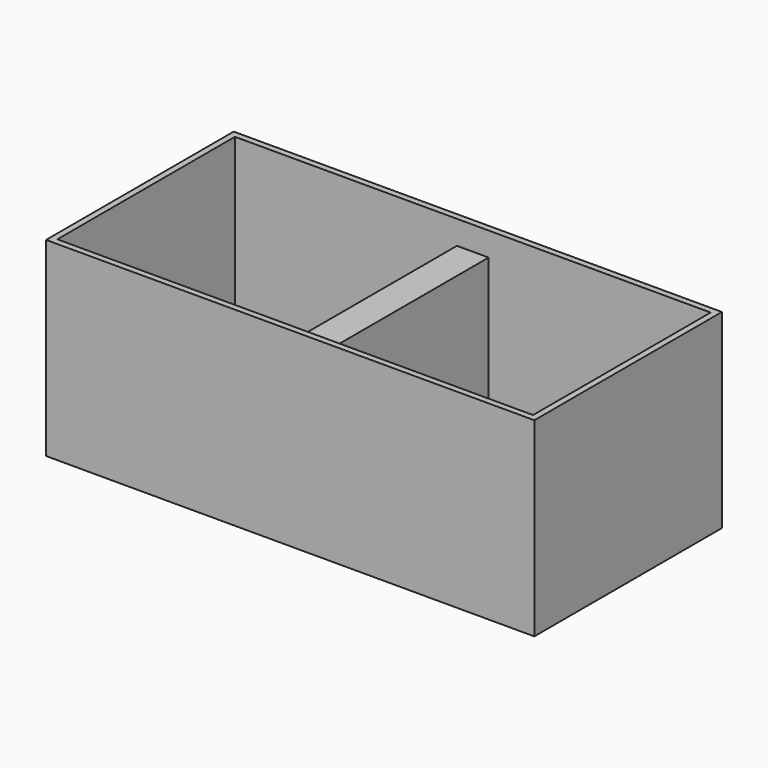
from build123d import *

# Parameters (mm, degrees)
F1_W     = 782
F1_H     = 375.6
F2_DEPTH = 304.8
F0_W     = 762
F0_H     = 355.6
F3_DEPTH = 304.801
F4_W     = 50.8
F4_H     = 355.6
F5_DEPTH = 266.7


with BuildPart() as f2:
    # F1 (on Top) → F2 (new body)
    with BuildSketch(Plane.XY):
        with Locations((381, 177.8)):
            Rectangle(F1_W, F1_H)
    extrude(amount=F2_DEPTH)

    # F0 (on Top) → F3 (cut, through all)
    with BuildSketch(Plane.XY):
        with Locations((381, 177.8)):
            Rectangle(F0_W, F0_H)
    extrude(amount=F3_DEPTH, mode=Mode.SUBTRACT)

    # F4 (on face) → F5 (join)
    with BuildSketch(Plane(origin=(0, 0, 0), x_dir=(1, 0, 0), z_dir=(0, 0, -1))):
        with Locations((381, -177.8)):
            Rectangle(F4_W, F4_H)
    extrude(amount=-F5_DEPTH)


solid = f2.part
